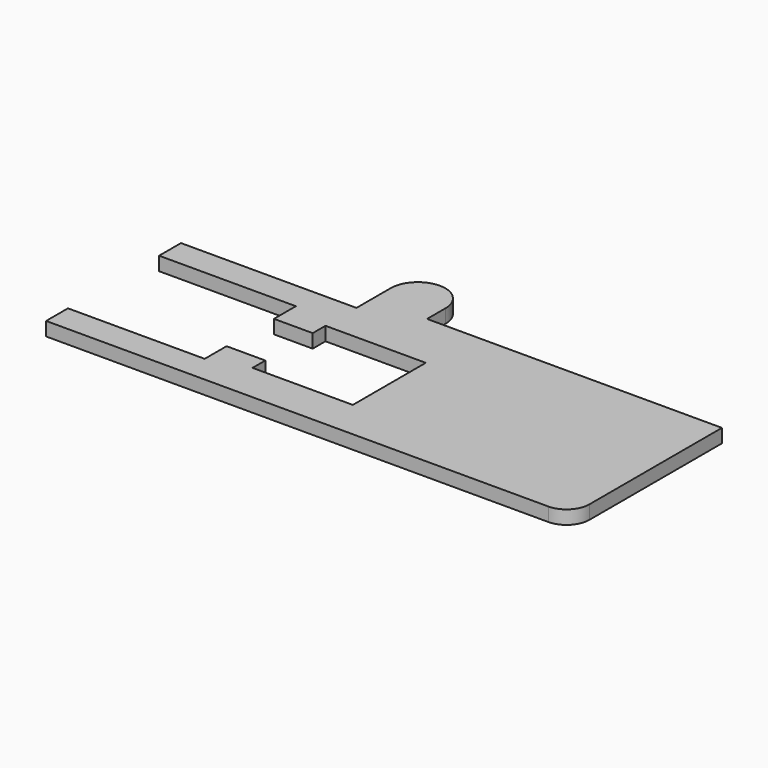
from build123d import *

# Parameters (mm, degrees)
F1_DEPTH = 3
F2_R     = 5


with BuildPart() as f1:
    # F0 (on Top) → F1 (new body)
    with BuildSketch(Plane.XY):
        with BuildLine():
            Line((-50.5, 0), (64.696152, 0))
            Line((64.696152, 0), (64.696152, 41.358293))
            Line((64.696152, 41.358293), (0, 41.358293))
            Line((0, 41.358293), (0, 46.358293))
            ThreePointArc((0, 46.358293), (-6, 52.358293), (-12, 46.358293))
            Line((-12, 46.358293), (-12, 37))
            Line((-12, 37), (-50.5, 37))
            Line((-50.5, 37), (-50.5, 31))
            Line((-50.5, 31), (-20.5, 31))
            Line((-20.5, 31), (-20.5, 25))
            Line((-20.5, 25), (-12, 25))
            Line((-12, 25), (-12, 28.5))
            Line((-12, 28.5), (0, 28.5))
            Line((0, 28.5), (10, 28.5))
            Line((10, 28.5), (10, 8.5))
            Line((10, 8.5), (0, 8.5))
            Line((0, 8.5), (-12, 8.5))
            Line((-12, 8.5), (-12, 12))
            Line((-12, 12), (-20.5, 12))
            Line((-20.5, 12), (-20.5, 6))
            Line((-20.5, 6), (-50.5, 6))
            Line((-50.5, 6), (-50.5, 0))
        make_face()
    extrude(amount=F1_DEPTH)

    # F2
    f2_edges = [f1.edges().sort_by_distance(p)[0] for p in [
        (64.696152, 0, 1.5),
    ]]
    fillet(f2_edges, radius=F2_R)


solid = f1.part
